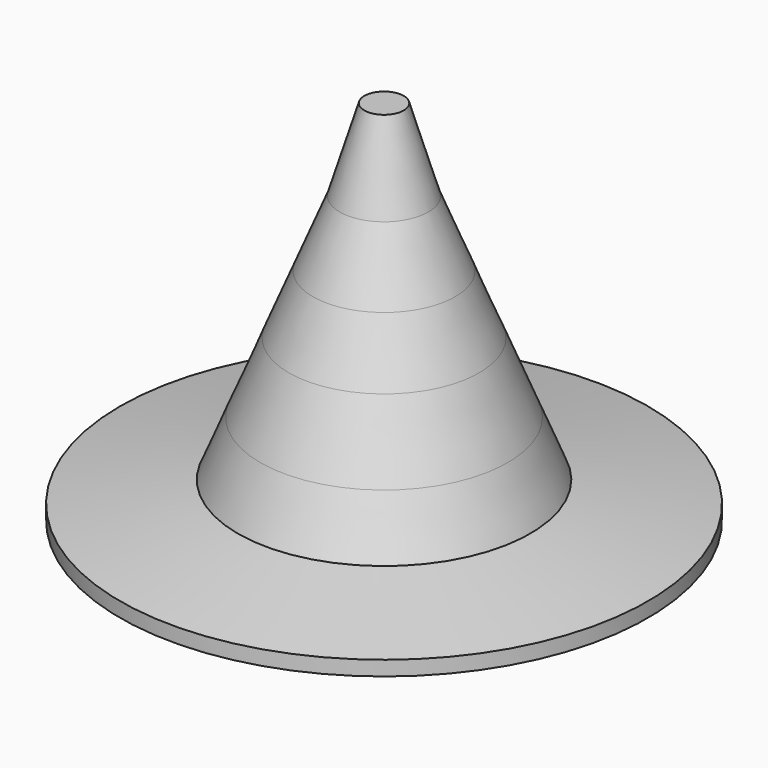
from build123d import *


with BuildPart() as f1:
    # F0 (on Front) → F1 (revolve)
    with BuildSketch(Plane.XZ):
        Polygon((-12.644363, 39.104443), (0, 39.104443), (0, 50.8), (-7.872514, 50.8), align=None)
    revolve(axis=Axis((0, 0, 25.4), (0, 0, 1)))


with BuildPart() as f2:
    # F0 (on Front) → F2 (revolve)
    with BuildSketch(Plane.XZ):
        Polygon((-16.932437, 28.594592), (0, 28.594592), (0, 39.104443), (-12.644363, 39.104443), align=None)
    revolve(axis=Axis((0, 0, 25.4), (0, 0, 1)))


with BuildPart() as f3:
    # F0 (on Front) → F3 (revolve)
    with BuildSketch(Plane.XZ):
        Polygon((-21.992569, 16.192467), (0, 16.192467), (0, 28.594592), (-16.932437, 28.594592), align=None)
    revolve(axis=Axis((0, 0, 25.4), (0, 0, 1)))


with BuildPart() as f4:
    # F0 (on Front) → F4 (revolve)
    with BuildSketch(Plane.XZ):
        Polygon((-46.902414, 0), (0, 0), (0, 16.192467), (-21.992569, 16.192467), (-25.99236, 6.389183), (-46.902414, 2.613757), align=None)
    revolve(axis=Axis((0, 0, 25.4), (0, 0, 1)))


with BuildPart() as f5:
    # F0 (on Front) → F5 (revolve)
    with BuildSketch(Plane.XZ):
        Polygon((-7.872514, 50.8), (0, 50.8), (0, 59.367437), (0, 65.273613), (-3.504879, 65.273613), align=None)
    revolve(axis=Axis((0, 0, 58.036806), (0, 0, 1)))


solid = Compound([f1.part, f2.part, f3.part, f4.part, f5.part])
